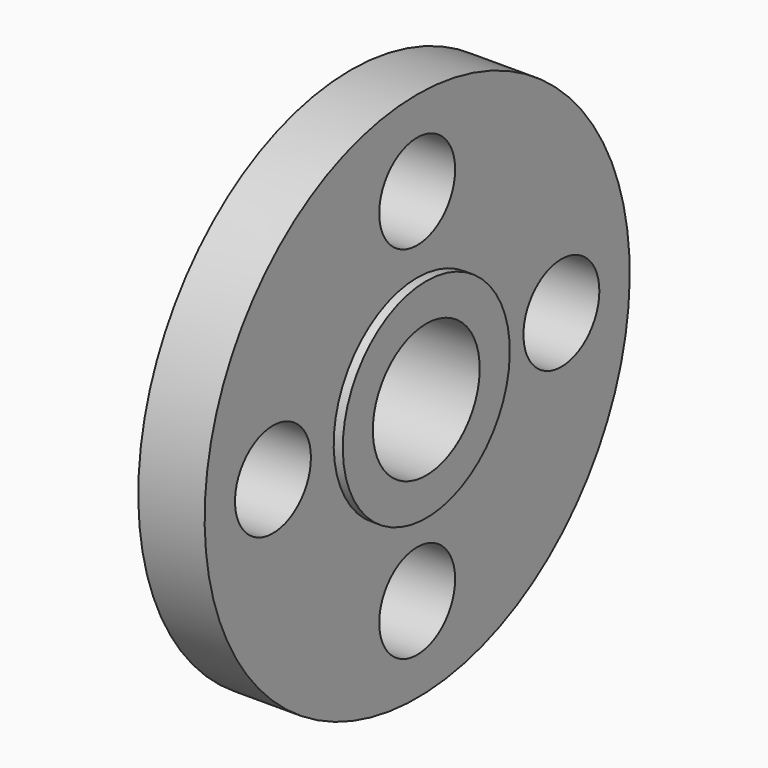
from build123d import *

# Parameters (mm, degrees)
F2_R     = 7.9375
F3_DEPTH = 25.4


with BuildPart() as f1:
    # F0 (on Front) → F1 (revolve)
    with BuildSketch(Plane.XZ):
        Polygon((0, 15.0876), (0, 11.176), (15.875, 11.176), (15.875, 17.4625), (14.351, 17.4625), (14.351, 44.45), (3.2512, 44.45), (3.2512, 15.0876), align=None)
    revolve(axis=Axis((-2.10265, 0, 0), (1, 0, 0)))

    # F2 (on face) → F3 (cut)
    with BuildSketch(Plane.YZ.offset(14.351)):
        with Locations((0, 30.1625)):
            Circle(F2_R)
        with Locations((30.1625, 0)):
            Circle(F2_R)
        with Locations((-30.1625, 0)):
            Circle(F2_R)
        with Locations((0, -30.1625)):
            Circle(F2_R)
    extrude(amount=-F3_DEPTH, mode=Mode.SUBTRACT)


solid = f1.part
